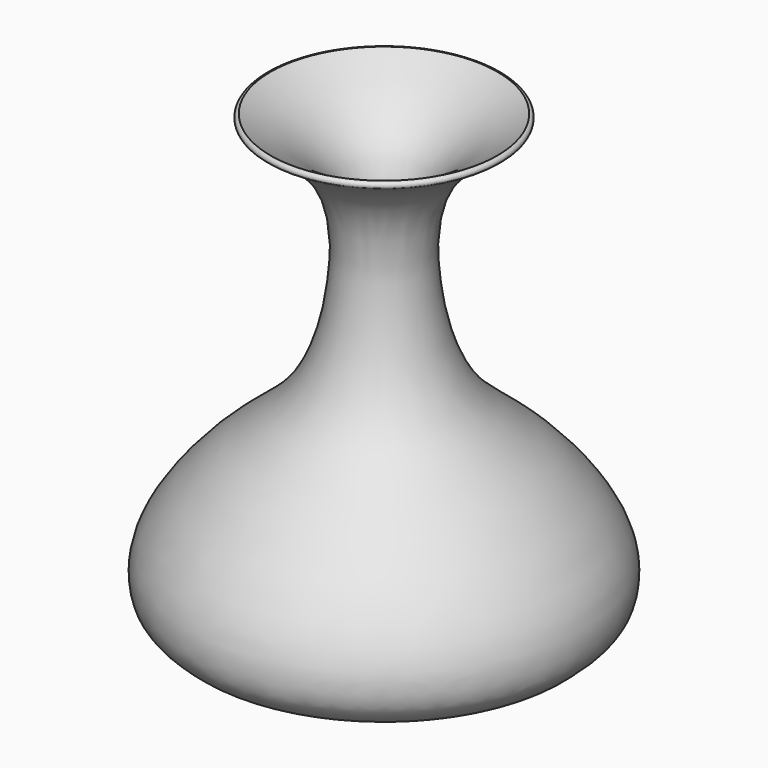
from build123d import *

# Parameters (mm, degrees)
F2_R = 0.783846795


with BuildPart() as f1:
    # F0 (on Front) → F1 (revolve)
    with BuildSketch(Plane.XZ):
        with BuildLine():
            Line((-26.5741803177, 43.6035246696), (-29.5741803177, 43.6035246696))
            add(Edge.make_bspline(
                [(-29.5741803177, 43.6035246696), (-27.8203311008, 42.6177443696), (-24.2188862661, 40.5935025718), (-18.8179835555, 36.9020517658), (-11.5696823943, 29.7482129457), (-9.5046775518, 18.0341010621), (-10.3052571133, 8.9392161918), (-11.6738052155, -0.2707353696), (-16.766177205, -14.5111315777), (-29.6391774724, -24.2602380178), (-35.931640854, -30.1976779705), (-42.3328262227, -37.7626400346), (-47.2598608042, -46.910867313), (-46.6184686423, -56.3707166891), (-43.1882705644, -58.9527647242), (-41.5832184225, -60.2916551232)],
                knots=[0, 0, 0, 0, 0.0612919356, 0.1249849596, 0.2032952721, 0.2882596128, 0.3631785008, 0.4386653757, 0.5349121166, 0.6342055962, 0.7077850264, 0.7853380641, 0.8659961597, 0.9388371636, 1, 1, 1, 1], degree=3))
            add(Edge.make_bspline(
                [(-41.5832184225, -60.2916551232), (-27.722145615, -60.2916551232), (-13.8610728075, -60.2916551232), (0, -60.2916551232)],
                knots=[0, 0, 0, 0, 41.5832184225, 41.5832184225, 41.5832184225, 41.5832184225], degree=3))
            Line((0, -60.2916551232), (0, -58.7770615502))
            Line((0, -58.7770615502), (-40.8006234161, -57.836003148))
            add(Edge.make_bspline(
                [(-26.5741803177, 43.6035246696), (-24.7842594493, 42.5974696943), (-21.236172925, 40.6032191564), (-15.8120735829, 36.8987286496), (-8.5715769599, 29.7492841877), (-6.5041987981, 18.033807441), (-7.3054506426, 8.9394045692), (-8.6734348479, -0.2712792784), (-13.7678247717, -14.5085408319), (-26.6335981417, -24.269052005), (-32.9468676298, -30.1736172269), (-39.2709215029, -37.8604617154), (-44.4910374812, -46.545561903), (-43.0501329541, -56.4758528299), (-41.8989584428, -56.9198022447), (-40.8006234161, -57.836003148)],
                knots=[0, 0, 0, 0, 0.0625525351, 0.127555542, 0.2074764732, 0.2941882868, 0.3706480416, 0.4476874652, 0.5459137257, 0.6472493875, 0.7223421357, 0.8014902171, 0.8838072185, 0.9581463532, 1, 1, 1, 1], degree=3))
        make_face()
    revolve(axis=Axis((0, 0, -2.1120254756), (0, 0, -1)))

    # F2
    f2_edges = [f1.edges().sort_by_distance(p)[0] for p in [
        (41.583218, 0, -60.291655),
        (-20.791609, 0, -60.291655),
        (29.57418, 0, 43.603525),
        (-15.971148, 0, -10.293311),
    ]]
    fillet(f2_edges, radius=F2_R)


solid = f1.part
